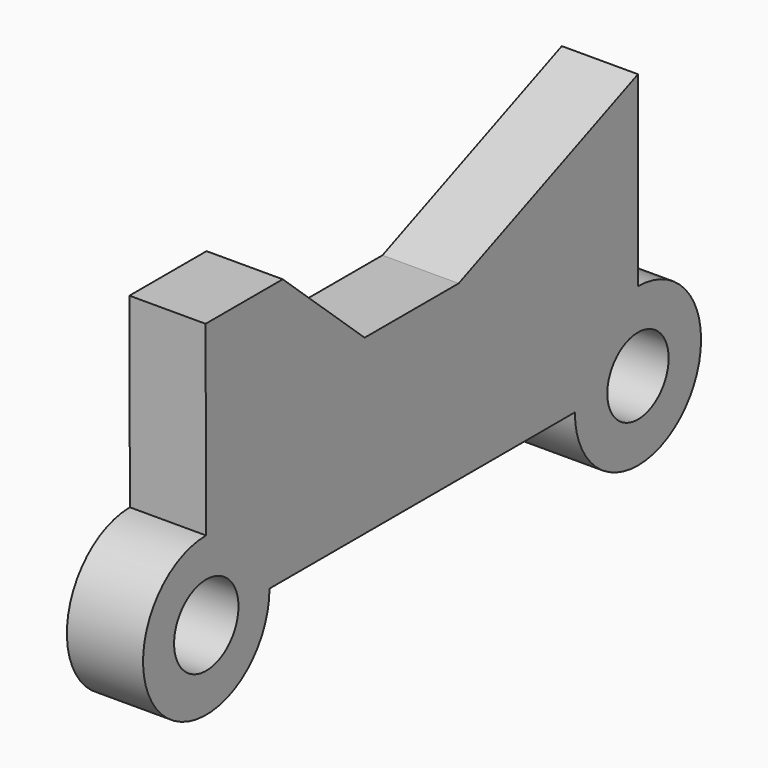
from build123d import *

# Parameters (mm, degrees)
F1_DEPTH = 24.638
F2_R     = 13.015145
F2_R_2   = 12.398002
F3_DEPTH = 35.052


with BuildPart() as f1:
    # F0 (on Right) → F1 (new body)
    with BuildSketch(Plane.YZ):
        with BuildLine():
            Line((-109.188519, -41.18206), (-109.269887, -15.63245))
            ThreePointArc((-109.269887, -15.63245), (-127.226123, -59.277199), (-83.63878, -41.18206))
            Line((-83.63878, -41.18206), (-109.188519, -41.18206))
        make_face()
        with BuildLine():
            ThreePointArc((-83.63878, -41.18206), (-91.150916, -23.086921), (-109.269887, -15.63245))
            Line((-109.269887, -15.63245), (-109.188519, -41.18206))
            Line((-109.188519, -41.18206), (-83.63878, -41.18206))
        make_face()
        with BuildLine():
            Line((-78.279719, 44.706121), (-109.462045, 44.706121))
            Line((-109.462045, 44.706121), (-109.269887, -15.63245))
            ThreePointArc((-109.269887, -15.63245), (-91.150916, -23.086921), (-83.63878, -41.18206))
            Line((-83.63878, -41.18206), (39.820287, -41.18206))
            ThreePointArc((39.820287, -41.18206), (47.289896, -23.148827), (65.323129, -15.679217))
            Line((65.323129, -15.679217), (65.323129, 44.706121))
            Line((65.323129, 44.706121), (-7.162113, 14.617906))
            Line((-7.162113, 14.617906), (-45.182679, 14.617906))
            Line((-45.182679, 14.617906), (-78.279719, 44.706121))
        make_face()
        with BuildLine():
            Line((65.323129, -41.18206), (39.820287, -41.18206))
            ThreePointArc((39.820287, -41.18206), (65.323129, -66.684902), (90.825972, -41.18206))
            ThreePointArc((90.825972, -41.18206), (83.356362, -23.148827), (65.323129, -15.679217))
            Line((65.323129, -15.679217), (65.323129, -41.18206))
        make_face()
        with BuildLine():
            ThreePointArc((65.323129, -15.679217), (47.289896, -23.148827), (39.820287, -41.18206))
            Line((39.820287, -41.18206), (65.323129, -41.18206))
            Line((65.323129, -41.18206), (65.323129, -15.679217))
        make_face()
    extrude(amount=F1_DEPTH)

    # F2 (on face) → F3 (cut)
    with BuildSketch(Plane.YZ.offset(24.638)):
        with Locations((-109.188519, -41.18206)):
            Circle(F2_R)
        with Locations((65.323129, -41.18206)):
            Circle(F2_R_2)
    extrude(amount=-F3_DEPTH, mode=Mode.SUBTRACT)


solid = f1.part
